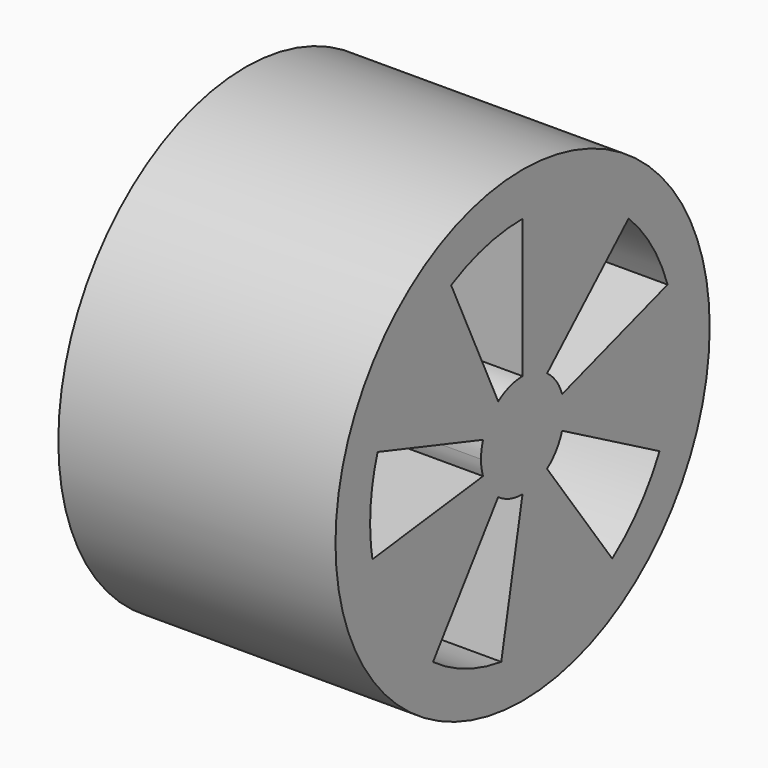
from build123d import *

# Parameters (mm, degrees)
F0_R     = 6.75
F1_DEPTH = 8
F3_DEPTH = 8


with BuildPart() as f1:
    # F0 (on Right) → F1 (new body)
    with BuildSketch(Plane.YZ):
        Circle(F0_R)
    extrude(amount=F1_DEPTH)

    # F2 (on face) → F3 (cut)
    with BuildSketch(Plane(origin=(0, 0, 0), x_dir=(0, -1, 0), z_dir=(-1, 0, 0))):
        with BuildLine():
            ThreePointArc((-1.426585, 0.463525), (-1.21437, 0.880514), (-0.884003, 1.211832))
            Line((-0.884003, 1.211832), (-3.823831, 3.953266))
            ThreePointArc((-3.823831, 3.953266), (-4.665447, 2.912663), (-5.230811, 1.699593))
            Line((-5.230811, 1.699593), (-1.426585, 0.463525))
        make_face()
        with BuildLine():
            ThreePointArc((0, 1.5), (0.462157, 1.427029), (0.879349, 1.215214))
            Line((0.879349, 1.215214), (2.578151, 4.858306))
            ThreePointArc((2.578151, 4.858306), (1.328404, 5.337166), (0, 5.5))
            Line((0, 5.5), (0, 1.5))
        make_face()
        with BuildLine():
            ThreePointArc((1.426585, 0.463525), (1.481533, 0.234652), (1.5, 0))
            ThreePointArc((1.5, 0), (1.481757, -0.233231), (1.427471, -0.460789))
            Line((1.427471, -0.460789), (5.417216, -0.950668))
            ThreePointArc((5.417216, -0.950668), (5.479265, -0.477133), (5.5, 0))
            ThreePointArc((5.5, 0), (5.432286, 0.86039), (5.230811, 1.699593))
            Line((5.230811, 1.699593), (1.426585, 0.463525))
        make_face()
        with BuildLine():
            Line((3.232819, -4.449593), (0.881678, -1.213525))
            ThreePointArc((0.881678, -1.213525), (0.464893, -1.42614), (0.002877, -1.499997))
            Line((0.002877, -1.499997), (0.769873, -5.445851))
            ThreePointArc((0.769873, -5.445851), (2.062406, -5.098675), (3.232819, -4.449593))
        make_face()
        with BuildLine():
            Line((-3.232819, -4.449593), (-0.881678, -1.213525))
            ThreePointArc((-0.881678, -1.213525), (-1.21268, -0.882841), (-1.425693, -0.46626))
            Line((-1.425693, -0.46626), (-4.941409, -2.415053))
            ThreePointArc((-4.941409, -2.415053), (-4.211809, -3.537042), (-3.232819, -4.449593))
        make_face()
    extrude(amount=-F3_DEPTH, mode=Mode.SUBTRACT)


solid = f1.part
